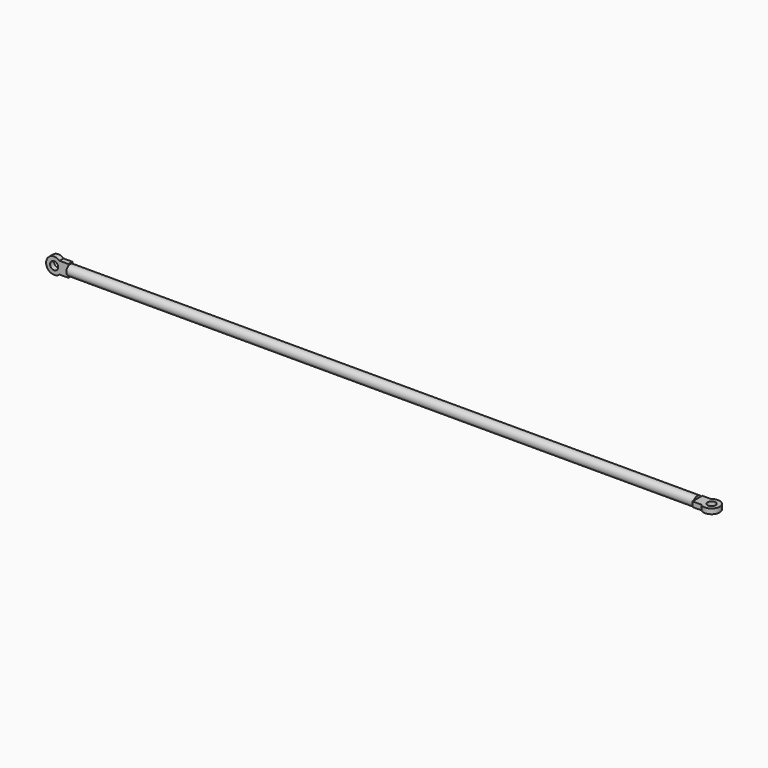
from build123d import *

# Parameters (mm, degrees)
F0_R     = 5
F1_DEPTH = 620
F2_R     = 4
F3_DEPTH = 2.5
F4_R     = 4
F5_DEPTH = 2.5


with BuildPart() as f1:
    # F0 (on Right) → F1 (new body)
    with BuildSketch(Plane.YZ):
        Circle(F0_R)
    extrude(amount=F1_DEPTH)

    # F2 (on Front) → F3 (join, symmetric)
    with BuildSketch(Plane.XZ):
        with BuildLine():
            Line((0, -6), (0, 6))
            Line((0, 6), (-8.708497, 6))
            ThreePointArc((-8.708497, 6), (-22, 0), (-8.708497, -6))
            Line((-8.708497, -6), (0, -6))
        make_face()
        with Locations((-14, 0)):
            Circle(F2_R, mode=Mode.SUBTRACT)
    extrude(amount=F3_DEPTH, both=True)

    # F4 (on Top) → F5 (join, symmetric)
    with BuildSketch(Plane.XY):
        with BuildLine():
            Line((628.708497, 6), (620, 6))
            Line((620, 6), (620, -6))
            Line((620, -6), (628.708497, -6))
            ThreePointArc((628.708497, -6), (642, 0), (628.708497, 6))
        make_face()
        with Locations((634, 0)):
            Circle(F4_R, mode=Mode.SUBTRACT)
    extrude(amount=F5_DEPTH, both=True)


solid = f1.part
